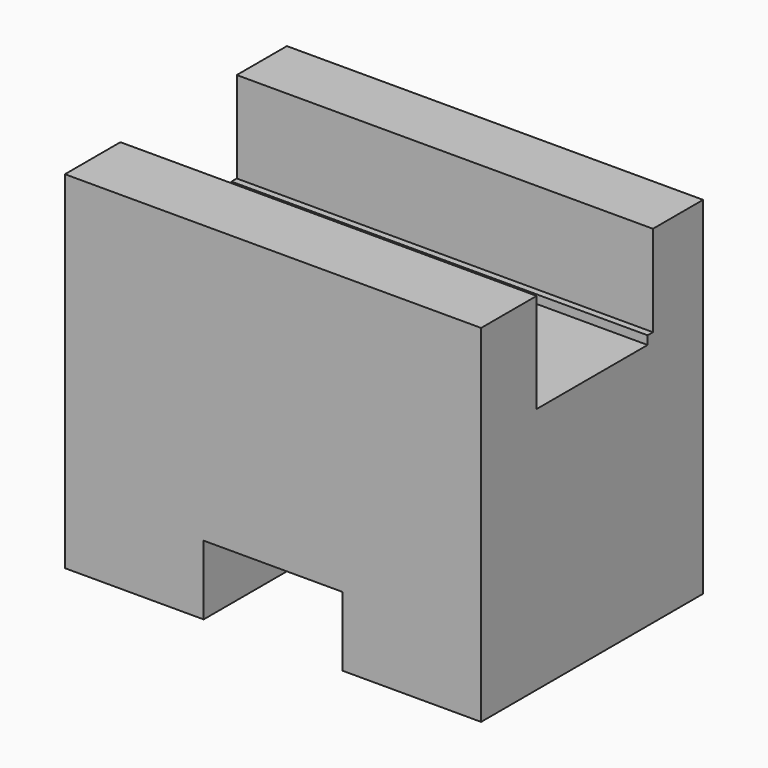
from build123d import *

# Parameters (mm, degrees)
F0_W     = 38.1
F0_H     = 31.75
F1_DEPTH = 25.4
F2_W     = 12.7
F2_H     = 6.35
F3_DEPTH = 25.401
F5_DEPTH = 38.101
F6_W     = 4.651743
F6_H     = 8.993374
F7_DEPTH = 38.101


with BuildPart() as f1:
    # F0 (on Front) → F1 (new body)
    with BuildSketch(Plane.XZ):
        with Locations((19.05, 15.875)):
            Rectangle(F0_W, F0_H)
    extrude(amount=F1_DEPTH)

    # F2 (on Front) → F3 (cut, through all)
    with BuildSketch(Plane.XZ):
        with Locations((19.05, 3.175)):
            Rectangle(F2_W, F2_H)
    extrude(amount=F3_DEPTH, mode=Mode.SUBTRACT)

    # F4 (on Right) → F5 (cut, through all)
    with BuildSketch(Plane.YZ):
        Polygon((-6.35, 31.664679), (-19.05, 31.9469), (-19.05, 22.633568), (-6.35, 22.633568), align=None)
    extrude(amount=F5_DEPTH, mode=Mode.SUBTRACT)

    # F6 (on Right) → F7 (cut, through all)
    with BuildSketch(Plane.YZ):
        with Locations((-8.063024, 27.910466)):
            Rectangle(F6_W, F6_H)
    extrude(amount=F7_DEPTH, mode=Mode.SUBTRACT)


solid = f1.part
